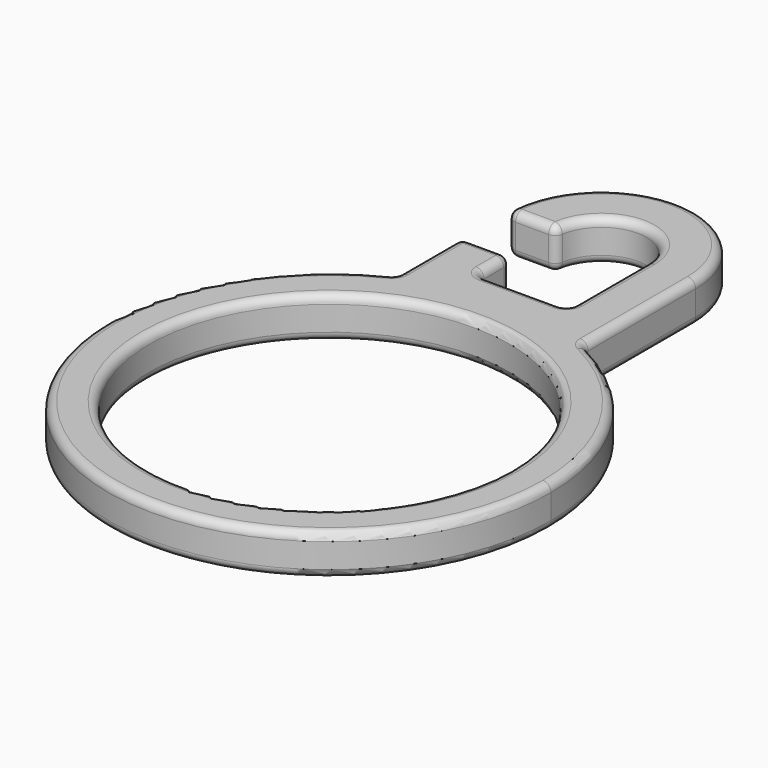
from build123d import *

# Parameters (mm, degrees)
F0_R     = 22
F1_DEPTH = 5
F2_R     = 1


with BuildPart() as f1:
    # F0 (on Top) → F1 (new body)
    with BuildSketch(Plane.XY):
        with BuildLine():
            ThreePointArc((-11.5, 24.428467), (-14.465476, -22.798026), (27, 0))
            ThreePointArc((27, 0), (22.798026, 14.465476), (11.5, 24.428467))
            ThreePointArc((11.5, 24.428467), (0, 27), (-11.5, 24.428467))
        make_face()
        Circle(F0_R, mode=Mode.SUBTRACT)
        with BuildLine():
            ThreePointArc((-11.5, 24.428467), (0, 27), (11.5, 24.428467))
            Line((11.5, 24.428467), (11.5, 41.428467))
            ThreePointArc((11.5, 41.428467), (0, 52.928467), (-11.5, 41.428467))
            Line((-11.5, 41.428467), (-5.5, 41.428467))
            ThreePointArc((-5.5, 41.428467), (0, 46.928467), (5.5, 41.428467))
            Line((5.5, 41.428467), (5.5, 29.428467))
            Line((5.5, 29.428467), (-5.5, 29.428467))
            Line((-5.5, 29.428467), (-5.5, 34.428467))
            Line((-5.5, 34.428467), (-11.5, 34.428467))
            Line((-11.5, 34.428467), (-11.5, 24.428467))
        make_face()
    extrude(amount=F1_DEPTH)

    # F2
    f2_edges = [f1.edges().sort_by_distance(p)[0] for p in [
        (-14.465476, -22.798026, 5),
        (22.798026, 14.465476, 5),
        (11.5, 32.928467, 5),
        (0, 52.928467, 5),
        (-8.5, 41.428467, 5),
        (0, 46.928467, 5),
        (5.5, 35.428467, 5),
        (0, 29.428467, 5),
        (-5.5, 31.928467, 5),
        (-8.5, 34.428467, 5),
        (-11.5, 29.428467, 5),
        (-22, 0, 5),
        (22.798026, 14.465476, 0),
        (11.5, 32.928467, 0),
        (0, 52.928467, 0),
        (-8.5, 41.428467, 0),
        (0, 46.928467, 0),
        (5.5, 35.428467, 0),
        (0, 29.428467, 0),
        (-5.5, 31.928467, 0),
        (-8.5, 34.428467, 0),
        (-11.5, 29.428467, 0),
        (-14.465476, -22.798026, 0),
        (-22, 0, 0),
        (-11.5, 24.428467, 2.5),
        (11.5, 24.428467, 2.5),
        (5.5, 29.428467, 2.5),
        (-5.5, 29.428467, 2.5),
        (-5.5, 34.428467, 2.5),
        (-11.5, 34.428467, 2.5),
        (-5.5, 41.428467, 2.5),
        (-11.5, 41.428467, 2.5),
    ]]
    fillet(f2_edges, radius=F2_R)


solid = f1.part
